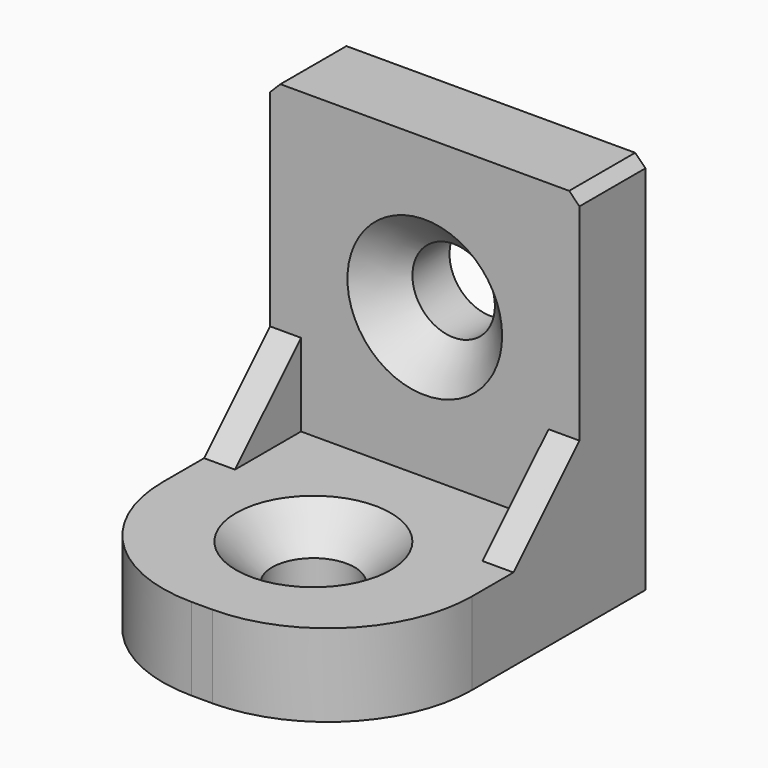
from build123d import *

# Parameters (mm, degrees)
SKETCH_W        = 30
SKETCH_H        = 37
PAD_DEPTH       = 35
FILLET_R        = 14
BOX_W           = 32
BOX_H           = 32
BOX_DEPTH       = 32
SKETCH001_R     = 4
POCKET_DEPTH    = 8
SKETCH002_R     = 4
POCKET001_DEPTH = 8
CHAMFER_SIZE    = 3.5
CHAMFER001_SIZE = 1
SKETCH003_W     = 3
SKETCH003_H     = 8
PAD001_DEPTH    = 8
POCKET002_DEPTH = 30.001


with BuildPart() as part:
    # Sketch → Pad (new body)
    with BuildSketch(Plane.XZ):
        with Locations((0, 18.5)):
            Rectangle(SKETCH_W, SKETCH_H)
    extrude(amount=PAD_DEPTH)

    # Fillet
    fillet_edges = [part.edges().sort_by_distance(p)[0] for p in [
        (15, -35, 18.5),
        (-15, -35, 18.5),
    ]]
    fillet(fillet_edges, radius=FILLET_R)

    # Box → Box (cut)
    with BuildSketch(Plane(origin=(-16, -8, 8), x_dir=(1, 0, 0), z_dir=(0, -1, 0))):
        with Locations((16, 16)):
            Rectangle(BOX_W, BOX_H)
    extrude(amount=BOX_DEPTH, mode=Mode.SUBTRACT)

    # Sketch001 (on Face6 of Box) → Pocket (cut)
    with BuildSketch(Plane(origin=(0, -8, 22.5), x_dir=(1, 0, 0), z_dir=(0, -1, 0))):
        Circle(SKETCH001_R)
    extrude(amount=-POCKET_DEPTH, mode=Mode.SUBTRACT)

    # Sketch002 (on Face5 of Pocket) → Pocket001 (cut)
    with BuildSketch(Plane(origin=(0, -21.5, 8), x_dir=(-1, 0, 0), z_dir=(0, 0, 1))):
        Circle(SKETCH002_R)
    extrude(amount=-POCKET001_DEPTH, mode=Mode.SUBTRACT)

    # Chamfer
    chamfer_edges = [part.edges().sort_by_distance(p)[0] for p in [
        (-4, -8, 22.5),
        (4, -21.5, 8),
    ]]
    chamfer(chamfer_edges, length=CHAMFER_SIZE)

    # Chamfer001
    chamfer001_edges = [part.edges().sort_by_distance(p)[0] for p in [
        (15, -4, 37),
        (-15, -4, 37),
    ]]
    chamfer(chamfer001_edges, length=CHAMFER001_SIZE)

    # Sketch003 (on Face1 of Chamfer001) → Pad001 (join)
    with BuildSketch(Plane(origin=(0, -8, 8), x_dir=(1, 0, 0), z_dir=(0, -1, 0))):
        with Locations((13.5, 4)):
            Rectangle(SKETCH003_W, SKETCH003_H)
        with Locations((-13.5, 4)):
            Rectangle(SKETCH003_W, SKETCH003_H)
    extrude(amount=PAD001_DEPTH)

    # Sketch004 (on Face21 of Pad001) → Pocket002 (cut, through all)
    with BuildSketch(Plane(origin=(15, -8, 8), x_dir=(0, 0, 1), z_dir=(1, 0, 0))):
        Polygon((0, 8), (8, 0), (8, 8), align=None)
    extrude(amount=-POCKET002_DEPTH, mode=Mode.SUBTRACT)


solid = part.part
